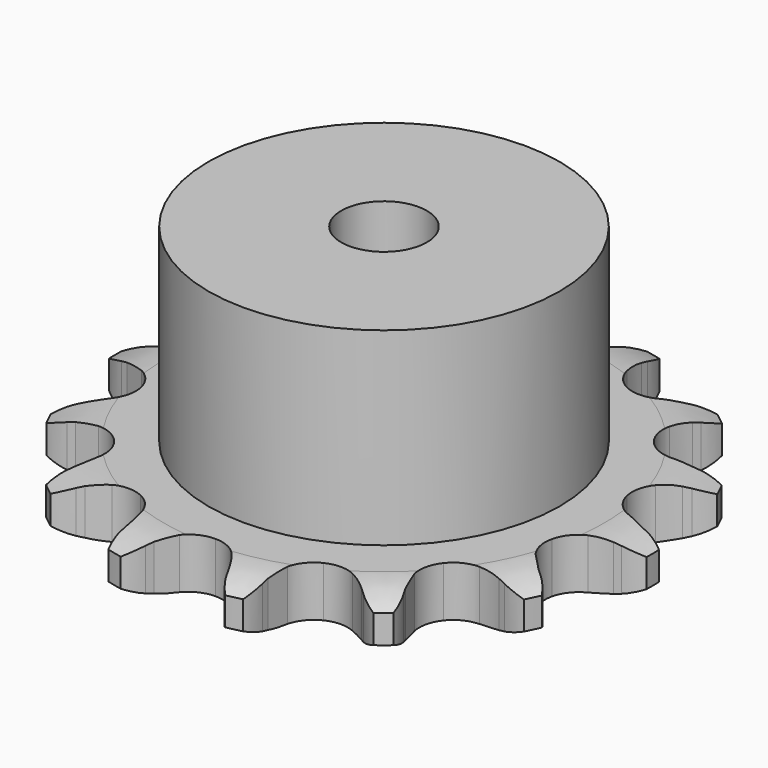
from build123d import *

# Parameters (mm, degrees)
PAD_DEPTH         = 5.9
SKETCH001_R       = 20.5
PAD001_DEPTH      = 28
SKETCH002_R       = 5
POCKET_DEPTH      = 0.001
POCKET_DEPTH_BACK = -28.001


with BuildPart() as part:
    # Sprocket → Pad (new body)
    with BuildSketch(Plane.XY):
        with BuildLine():
            ThreePointArc((-7.22805, 31.668157), (-5.768825, 30.464034), (-4.719646, 28.889718))
            Line((-4.719646, 28.889718), (-4.362885, 28.134497))
            ThreePointArc((-4.362885, 28.134497), (-3.767156, 27.05023), (-3.043728, 26.046645))
            ThreePointArc((-3.043728, 26.046645), (-1.684119, 24.983037), (0, 24.604166))
            ThreePointArc((0, 24.604166), (1.684119, 24.983037), (3.043728, 26.046645))
            ThreePointArc((3.043728, 26.046645), (3.767156, 27.05023), (4.362885, 28.134497))
            Line((4.362885, 28.134497), (4.719646, 28.889718))
            ThreePointArc((4.719646, 28.889718), (5.768825, 30.464034), (7.22805, 31.668157))
            ThreePointArc((7.22805, 31.668157), (8.020317, 29.950146), (8.282525, 28.076514))
            Line((8.282525, 28.076514), (8.276277, 27.241291))
            ThreePointArc((8.276277, 27.241291), (8.342565, 26.005923), (8.558912, 24.787841))
            ThreePointArc((8.558912, 24.787841), (9.322395, 23.23965), (10.675348, 22.167588))
            ThreePointArc((10.675348, 22.167588), (12.357072, 21.778227), (14.04352, 22.146592))
            Line((14.04352, 22.146592), (16.137924, 23.455321))
            ThreePointArc((16.137924, 23.455321), (16.45706, 23.724832), (16.787033, 23.980959))
            ThreePointArc((16.787033, 23.980959), (18.415381, 24.944147), (20.252547, 25.39589))
            ThreePointArc((20.252547, 25.39589), (20.220937, 23.504264), (19.64424, 21.702412))
            Line((19.64424, 21.702412), (19.276221, 20.952613))
            ThreePointArc((19.276221, 20.952613), (18.799938, 19.810823), (18.466354, 18.6195))
            ThreePointArc((18.466354, 18.6195), (18.482494, 16.893366), (19.236312, 15.340447))
            ThreePointArc((19.236312, 15.340447), (20.582556, 14.259971), (22.261821, 13.860135))
            Line((22.261821, 13.860135), (24.71665, 14.130531))
            ThreePointArc((24.71665, 14.130531), (25.121117, 14.234884), (25.529542, 14.322477))
            ThreePointArc((25.529542, 14.322477), (27.414545, 14.483765), (29.265778, 14.093656))
            ThreePointArc((29.265778, 14.093656), (28.416553, 12.403074), (27.115173, 11.029882))
            Line((27.115173, 11.029882), (26.458273, 10.514013))
            ThreePointArc((26.458273, 10.514013), (25.533753, 9.691948), (24.716308, 8.763339))
            ThreePointArc((24.716308, 8.763339), (23.981908, 7.201143), (23.987288, 5.474942))
            ThreePointArc((23.987288, 5.474942), (24.731412, 3.917354), (26.070895, 2.828508))
            Line((26.070895, 2.828508), (28.39994, 2.007016))
            ThreePointArc((28.39994, 2.007016), (28.809629, 1.925543), (29.215613, 1.827253))
            ThreePointArc((29.215613, 1.827253), (30.983922, 1.154696), (32.482563, 0))
            ThreePointArc((32.482563, 0), (30.983922, -1.154696), (29.215613, -1.827253))
            Line((29.215613, -1.827253), (28.39994, -2.007016))
            ThreePointArc((28.39994, -2.007016), (27.210295, -2.346537), (26.070895, -2.828508))
            ThreePointArc((26.070895, -2.828508), (24.731412, -3.917354), (23.987288, -5.474942))
            ThreePointArc((23.987288, -5.474942), (23.981908, -7.201143), (24.716308, -8.763339))
            Line((24.716308, -8.763339), (26.458273, -10.514013))
            ThreePointArc((26.458273, -10.514013), (26.792041, -10.765176), (27.115173, -11.029882))
            ThreePointArc((27.115173, -11.029882), (28.416553, -12.403074), (29.265778, -14.093656))
            ThreePointArc((29.265778, -14.093656), (27.414545, -14.483765), (25.529542, -14.322477))
            Line((25.529542, -14.322477), (24.71665, -14.130531))
            ThreePointArc((24.71665, -14.130531), (23.497504, -13.920261), (22.261821, -13.860135))
            ThreePointArc((22.261821, -13.860135), (20.582556, -14.259971), (19.236312, -15.340447))
            ThreePointArc((19.236312, -15.340447), (18.482494, -16.893366), (18.466354, -18.6195))
            Line((18.466354, -18.6195), (19.276221, -20.952613))
            ThreePointArc((19.276221, -20.952613), (19.46796, -21.323719), (19.64424, -21.702412))
            ThreePointArc((19.64424, -21.702412), (20.220937, -23.504264), (20.252547, -25.39589))
            ThreePointArc((20.252547, -25.39589), (18.415381, -24.944147), (16.787033, -23.980959))
            Line((16.787033, -23.980959), (16.137924, -23.455321))
            ThreePointArc((16.137924, -23.455321), (15.130745, -22.736907), (14.04352, -22.146592))
            ThreePointArc((14.04352, -22.146592), (12.357072, -21.778227), (10.675348, -22.167588))
            ThreePointArc((10.675348, -22.167588), (9.322395, -23.23965), (8.558912, -24.787841))
            Line((8.558912, -24.787841), (8.276277, -27.241291))
            ThreePointArc((8.276277, -27.241291), (8.288011, -27.658838), (8.282525, -28.076514))
            ThreePointArc((8.282525, -28.076514), (8.020317, -29.950146), (7.22805, -31.668157))
            ThreePointArc((7.22805, -31.668157), (5.768825, -30.464034), (4.719646, -28.889718))
            Line((4.719646, -28.889718), (4.362885, -28.134497))
            ThreePointArc((4.362885, -28.134497), (3.767156, -27.05023), (3.043728, -26.046645))
            ThreePointArc((3.043728, -26.046645), (1.684119, -24.983037), (0, -24.604166))
            ThreePointArc((0, -24.604166), (-1.684119, -24.983037), (-3.043728, -26.046645))
            Line((-3.043728, -26.046645), (-4.362885, -28.134497))
            ThreePointArc((-4.362885, -28.134497), (-4.53348, -28.515785), (-4.719646, -28.889718))
            ThreePointArc((-4.719646, -28.889718), (-5.768825, -30.464034), (-7.22805, -31.668157))
            ThreePointArc((-7.22805, -31.668157), (-8.020317, -29.950146), (-8.282525, -28.076514))
            Line((-8.282525, -28.076514), (-8.276277, -27.241291))
            ThreePointArc((-8.276277, -27.241291), (-8.342565, -26.005923), (-8.558912, -24.787841))
            ThreePointArc((-8.558912, -24.787841), (-9.322395, -23.23965), (-10.675348, -22.167588))
            ThreePointArc((-10.675348, -22.167588), (-12.357072, -21.778227), (-14.04352, -22.146592))
            Line((-14.04352, -22.146592), (-16.137924, -23.455321))
            ThreePointArc((-16.137924, -23.455321), (-16.45706, -23.724832), (-16.787033, -23.980959))
            ThreePointArc((-16.787033, -23.980959), (-18.415381, -24.944147), (-20.252547, -25.39589))
            ThreePointArc((-20.252547, -25.39589), (-20.220937, -23.504264), (-19.64424, -21.702412))
            Line((-19.64424, -21.702412), (-19.276221, -20.952613))
            ThreePointArc((-19.276221, -20.952613), (-18.799938, -19.810823), (-18.466354, -18.6195))
            ThreePointArc((-18.466354, -18.6195), (-18.482494, -16.893366), (-19.236312, -15.340447))
            ThreePointArc((-19.236312, -15.340447), (-20.582556, -14.259971), (-22.261821, -13.860135))
            Line((-22.261821, -13.860135), (-24.71665, -14.130531))
            ThreePointArc((-24.71665, -14.130531), (-25.121117, -14.234884), (-25.529542, -14.322477))
            ThreePointArc((-25.529542, -14.322477), (-27.414545, -14.483765), (-29.265778, -14.093656))
            ThreePointArc((-29.265778, -14.093656), (-28.416553, -12.403074), (-27.115173, -11.029882))
            Line((-27.115173, -11.029882), (-26.458273, -10.514013))
            ThreePointArc((-26.458273, -10.514013), (-25.533753, -9.691948), (-24.716308, -8.763339))
            ThreePointArc((-24.716308, -8.763339), (-23.981908, -7.201143), (-23.987288, -5.474942))
            ThreePointArc((-23.987288, -5.474942), (-24.731412, -3.917354), (-26.070895, -2.828508))
            Line((-26.070895, -2.828508), (-28.39994, -2.007016))
            ThreePointArc((-28.39994, -2.007016), (-28.809629, -1.925543), (-29.215613, -1.827253))
            ThreePointArc((-29.215613, -1.827253), (-30.983922, -1.154696), (-32.482563, 0))
            ThreePointArc((-32.482563, 0), (-30.983922, 1.154696), (-29.215613, 1.827253))
            Line((-29.215613, 1.827253), (-28.39994, 2.007016))
            ThreePointArc((-28.39994, 2.007016), (-27.210295, 2.346537), (-26.070895, 2.828508))
            ThreePointArc((-26.070895, 2.828508), (-24.731412, 3.917354), (-23.987288, 5.474942))
            ThreePointArc((-23.987288, 5.474942), (-23.981908, 7.201143), (-24.716308, 8.763339))
            Line((-24.716308, 8.763339), (-26.458273, 10.514013))
            ThreePointArc((-26.458273, 10.514013), (-26.792041, 10.765176), (-27.115173, 11.029882))
            ThreePointArc((-27.115173, 11.029882), (-28.416553, 12.403074), (-29.265778, 14.093656))
            ThreePointArc((-29.265778, 14.093656), (-27.414545, 14.483765), (-25.529542, 14.322477))
            Line((-25.529542, 14.322477), (-24.71665, 14.130531))
            ThreePointArc((-24.71665, 14.130531), (-23.497504, 13.920261), (-22.261821, 13.860135))
            ThreePointArc((-22.261821, 13.860135), (-20.582556, 14.259971), (-19.236312, 15.340447))
            ThreePointArc((-19.236312, 15.340447), (-18.482494, 16.893366), (-18.466354, 18.6195))
            Line((-18.466354, 18.6195), (-19.276221, 20.952613))
            ThreePointArc((-19.276221, 20.952613), (-19.46796, 21.323719), (-19.64424, 21.702412))
            ThreePointArc((-19.64424, 21.702412), (-20.220937, 23.504264), (-20.252547, 25.39589))
            ThreePointArc((-20.252547, 25.39589), (-18.415381, 24.944147), (-16.787033, 23.980959))
            Line((-16.787033, 23.980959), (-16.137924, 23.455321))
            ThreePointArc((-16.137924, 23.455321), (-15.130745, 22.736907), (-14.04352, 22.146592))
            ThreePointArc((-14.04352, 22.146592), (-12.357072, 21.778227), (-10.675348, 22.167588))
            ThreePointArc((-10.675348, 22.167588), (-9.322395, 23.23965), (-8.558912, 24.787841))
            Line((-8.558912, 24.787841), (-8.276277, 27.241291))
            ThreePointArc((-8.276277, 27.241291), (-8.288011, 27.658838), (-8.282525, 28.076514))
            ThreePointArc((-8.282525, 28.076514), (-8.020317, 29.950146), (-7.22805, 31.668157))
        make_face()
    extrude(amount=PAD_DEPTH)

    # Sketch → Groove (revolve, cut)
    with BuildSketch(Plane.XZ):
        with BuildLine():
            Line((25.733431, 0), (31.4, 0))
            Line((37.066569, 0), (31.4, 0))
            Line((37.066569, 5.9), (37.066569, 0))
            Line((31.4, 5.9), (37.066569, 5.9))
            Line((25.733431, 5.9), (31.4, 5.9))
            ThreePointArc((31.4, 4.6), (28.64032, 5.570833), (25.733431, 5.9))
            Line((31.4, 1.3), (31.4, 4.6))
            ThreePointArc((25.733431, 0), (28.64032, 0.329167), (31.4, 1.3))
        make_face()
    revolve(axis=Axis((0, 0, 0), (0, 0, 1)), mode=Mode.SUBTRACT)

    # Sketch001 → Pad001 (join)
    with BuildSketch(Plane.XY):
        Circle(SKETCH001_R)
    extrude(amount=PAD001_DEPTH)

    # Sketch002 → Pocket (cut, two sides)
    with BuildSketch(Plane.XY) as pocket_sk:
        Circle(SKETCH002_R)
    extrude(amount=-POCKET_DEPTH, mode=Mode.SUBTRACT)
    extrude(pocket_sk.sketch, amount=-POCKET_DEPTH_BACK, mode=Mode.SUBTRACT)


solid = part.part
